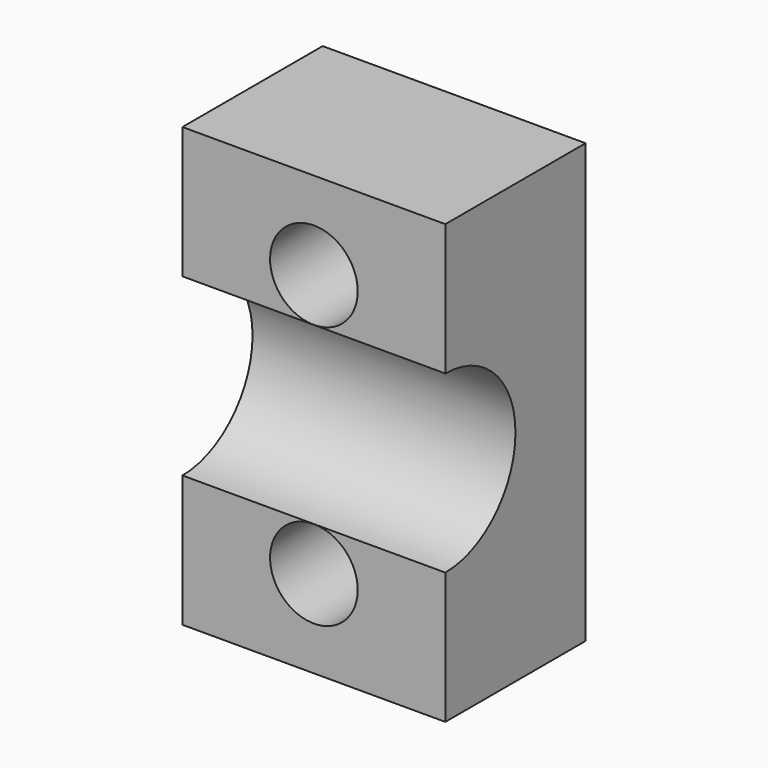
from build123d import *

# Parameters (mm, degrees)
F0_W     = 19.05
F0_H     = 31.75
F0_R     = 3.175
F1_DEPTH = 12.7
F2_R     = 6.35
F3_DEPTH = 19.051


with BuildPart() as f1:
    # F0 (on Front) → F1 (new body)
    with BuildSketch(Plane.XZ):
        Rectangle(F0_W, F0_H)
        with Locations((0, -9.525)):
            Circle(F0_R, mode=Mode.SUBTRACT)
        with Locations((0, 9.525)):
            Circle(F0_R, mode=Mode.SUBTRACT)
    extrude(amount=F1_DEPTH)

    # F2 (on face) → F3 (cut, through all)
    with BuildSketch(Plane.YZ.offset(9.525)):
        with Locations((-12.7, 0)):
            Circle(F2_R)
    extrude(amount=-F3_DEPTH, mode=Mode.SUBTRACT)


solid = f1.part
